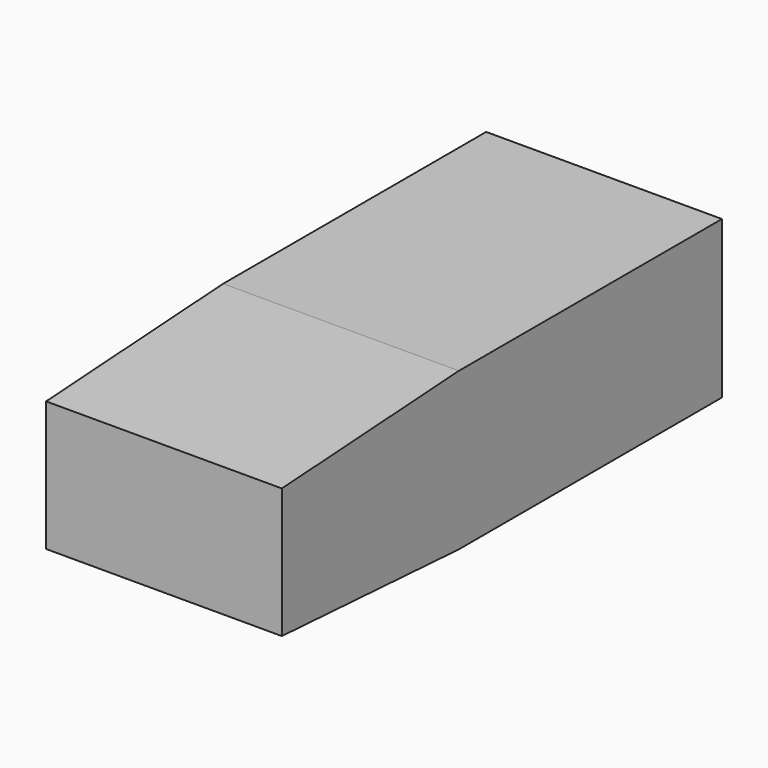
from build123d import *

# Parameters (mm, degrees)
F0_W      = 60
F0_H      = 40
F0_W_2    = 50
F0_H_2    = 32.5
F1_DEPTH  = 140
F2_T      = -0.5
F4_DEPTH  = 40
F6_DEPTH  = 60
F7_DEPTH  = 140
F8_W      = 10
F8_H      = 40
F9_DEPTH  = 60
F11_DEPTH = 60
F12_DEPTH = 60


with BuildPart() as f1:
    # F0 (on Front) → F1 (new body)
    with BuildSketch(Plane.XZ):
        Rectangle(F0_W, F0_H)
        Rectangle(F0_W_2, F0_H_2, mode=Mode.SUBTRACT)
    extrude(amount=F1_DEPTH)

    # F2 (hollow: no face is removed)
    offset(amount=F2_T, kind=Kind.INTERSECTION, mode=Mode.SUBTRACT)

    # F3 (on face) → F4 (join, through all)
    with BuildSketch(Plane.XY.offset(20)):
        Polygon((-29.8089313839, -140), (0, -70.5899032727), (-0.1578061569, -70.2224516363), (-30, -139.71), (-30, -140), align=None)
        Polygon((30, -139.71), (0.1578061569, -70.2224516363), (0, -70.5899032727), (29.8089313839, -140), (30, -140), align=None)
        Polygon((-0.1578061569, -70.2224516363), (0, -69.855), (-30, 0), (-30, -0.3179561596), (-30, -0.7349032727), align=None)
        Polygon((0, -70.5899032727), (0.1578061569, -70.2224516363), (0, -69.855), (-0.1578061569, -70.2224516363), align=None)
        Polygon((0.1578061569, -70.2224516363), (30, -0.7349032727), (30, 0), (0, -69.855), align=None)
    extrude(amount=-F4_DEPTH)

    # F5 (on face) → F6 (join, through all)
    with BuildSketch(Plane.YZ.offset(30)):
        Polygon((-69.472192033, 0.1508022763), (-70, 0), (-69.472192033, -0.1508022763), (-68.9443840661, 0), align=None)
        Polygon((0, 20), (-69.472192033, 0.1508022763), (-68.9443840661, 0), (0, 19.6983954474), align=None)
        Polygon((-68.9443840661, 0), (-69.472192033, -0.1508022763), (0, -20), (0, -19.6983954474), align=None)
        Polygon((-140, 20), (-70, 0), (-69.472192033, 0.1508022763), (-138.9443840661, 20), align=None)
        Polygon((-70, 0), (-140, -20), (-138.9443840661, -20), (-69.472192033, -0.1508022763), align=None)
    extrude(amount=-F6_DEPTH)

    # F0 (on Front) → F7 (cut)
    with BuildSketch(Plane.XZ):
        Rectangle(F0_W_2, F0_H_2)
    extrude(amount=F7_DEPTH, mode=Mode.SUBTRACT)

    # F8 (on face) → F9 (join, through all)
    with BuildSketch(Plane.YZ.offset(30)):
        with Locations((-135, 0)):
            Rectangle(F8_W, F8_H)
    extrude(amount=-F9_DEPTH)

    # F10 (on face) → F11 (cut, through all)
    with BuildSketch(Plane(origin=(-30, 0, 0), x_dir=(0, -1, 0), z_dir=(-1, 0, 0))):
        Polygon((83.6813354429, -20), (140, -20), (140, -16.54), align=None)
        Polygon((83.6813354429, 20), (140, 16.54), (140, 20), align=None)
    extrude(amount=-F11_DEPTH, mode=Mode.SUBTRACT)

    # F10 (on face) → F12 (join, through all)
    with BuildSketch(Plane(origin=(-30, 0, 0), x_dir=(0, -1, 0), z_dir=(-1, 0, 0))):
        Polygon((78.9609849453, 20), (140, 16.25), (140, 16.54), (83.6813354429, 20), align=None)
        Polygon((83.6813354429, -20), (140, -16.54), (140, -16.25), (78.9609849453, -20), align=None)
    extrude(amount=-F12_DEPTH)


solid = f1.part
